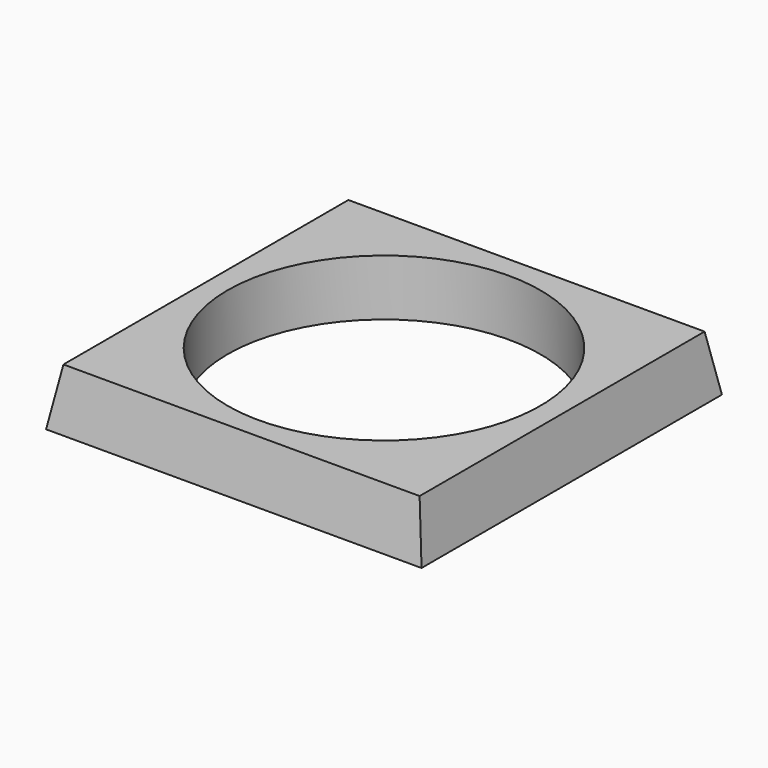
from build123d import *

# Parameters (mm, degrees)
F0_W     = 60
F0_H     = 60
F1_DEPTH = 9
F4_DEPTH = 25
F5_DEPTH = 50
F6_DEPTH = 55
F7_DEPTH = 25
F9_D     = 50


with BuildPart() as f1:
    # F0 (on Top) → F1 (new body)
    with BuildSketch(Plane.XY):
        with Locations((16.955535, 22.425423)):
            Rectangle(F0_W, F0_H)
    extrude(amount=F1_DEPTH)

    # F2 (on Right) → F4 (cut)
    with BuildSketch(Plane.YZ):
        Polygon((-7.574577, 9), (-7.574577, 0), (-6.036178, 9), align=None)
        Polygon((50.887025, 9), (52.425423, 0), (52.425423, 9), align=None)
    extrude(amount=-F4_DEPTH, mode=Mode.SUBTRACT)

    # F2 (on Right) → F5 (cut)
    with BuildSketch(Plane.YZ):
        Polygon((-7.574577, 9), (-7.574577, 0), (-6.036178, 9), align=None)
        Polygon((50.887025, 9), (52.425423, 0), (52.425423, 9), align=None)
    extrude(amount=F5_DEPTH, mode=Mode.SUBTRACT)

    # F3 (on Front) → F6 (cut)
    with BuildSketch(Plane.XZ):
        Polygon((-13.044465, 9), (-13.044465, 0), (-11.506067, 9), align=None)
        Polygon((45.417137, 9), (46.955535, 0), (46.955535, 9), align=None)
    extrude(amount=-F6_DEPTH, mode=Mode.SUBTRACT)

    # F3 (on Front) → F7 (cut)
    with BuildSketch(Plane.XZ):
        Polygon((-13.044465, 9), (-13.044465, 0), (-11.506067, 9), align=None)
        Polygon((45.417137, 9), (46.955535, 0), (46.955535, 9), align=None)
    extrude(amount=F7_DEPTH, mode=Mode.SUBTRACT)

    # F9 (through all)
    with Locations(Plane.XY.offset(9)):
        with Locations((16.955535, 22.425423)):
            Hole(F9_D / 2)


solid = f1.part
